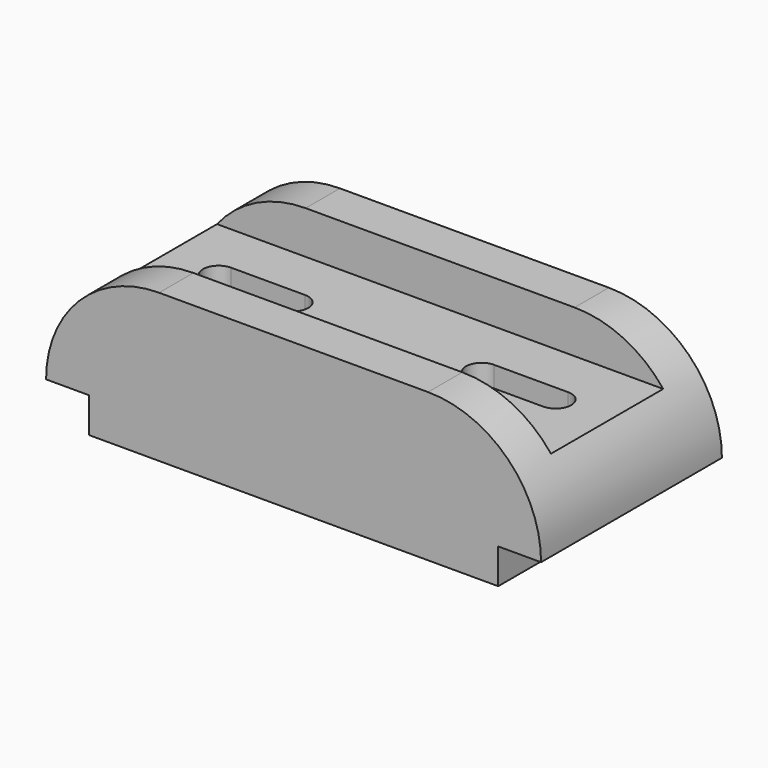
from build123d import *

# Parameters (mm, degrees)
F1_DEPTH = 58
F2_W     = 63.5
F2_H     = 36
F3_DEPTH = 11
F5_DEPTH = 27.001


with BuildPart() as f1:
    # F0 (on Front) → F1 (new body)
    with BuildSketch(Plane.XZ):
        with BuildLine():
            Line((34.5, 38), (0, 38))
            Line((0, 38), (0, 0))
            Line((0, 0), (52.5, 0))
            Line((52.5, 0), (52.5, 9))
            Line((52.5, 9), (63.5, 9))
            ThreePointArc((63.5, 9), (55.006097, 29.506097), (34.5, 38))
        make_face()
        with BuildLine():
            Line((0, 0), (0, 38))
            Line((0, 38), (-34.5, 38))
            ThreePointArc((-34.5, 38), (-55.006097, 29.506097), (-63.5, 9))
            Line((-63.5, 9), (-52.5, 9))
            Line((-52.5, 9), (-52.5, 0))
            Line((-52.5, 0), (0, 0))
        make_face()
    extrude(amount=-F1_DEPTH)

    # F2 (on face) → F3 (cut)
    with BuildSketch(Plane.XY.offset(38)):
        with Locations((31.75, 29)):
            Rectangle(F2_W, F2_H)
        with Locations((-31.75, 29)):
            Rectangle(F2_W, F2_H)
    extrude(amount=-F3_DEPTH, mode=Mode.SUBTRACT)

    # F4 (on face) → F5 (cut, through all)
    with BuildSketch(Plane.XY.offset(27)):
        with BuildLine():
            Line((43.237634, 34), (24.237634, 34))
            ThreePointArc((24.237634, 34), (20.237634, 30), (24.237634, 26))
            Line((24.237634, 26), (43.237634, 26))
            ThreePointArc((43.237634, 26), (47.237634, 30), (43.237634, 34))
        make_face()
        with BuildLine():
            ThreePointArc((-24.237634, 26), (-20.237634, 30), (-24.237634, 34))
            Line((-24.237634, 34), (-43.237634, 34))
            ThreePointArc((-43.237634, 34), (-47.237634, 30), (-43.237634, 26))
            Line((-43.237634, 26), (-24.237634, 26))
        make_face()
    extrude(amount=-F5_DEPTH, mode=Mode.SUBTRACT)


solid = f1.part
